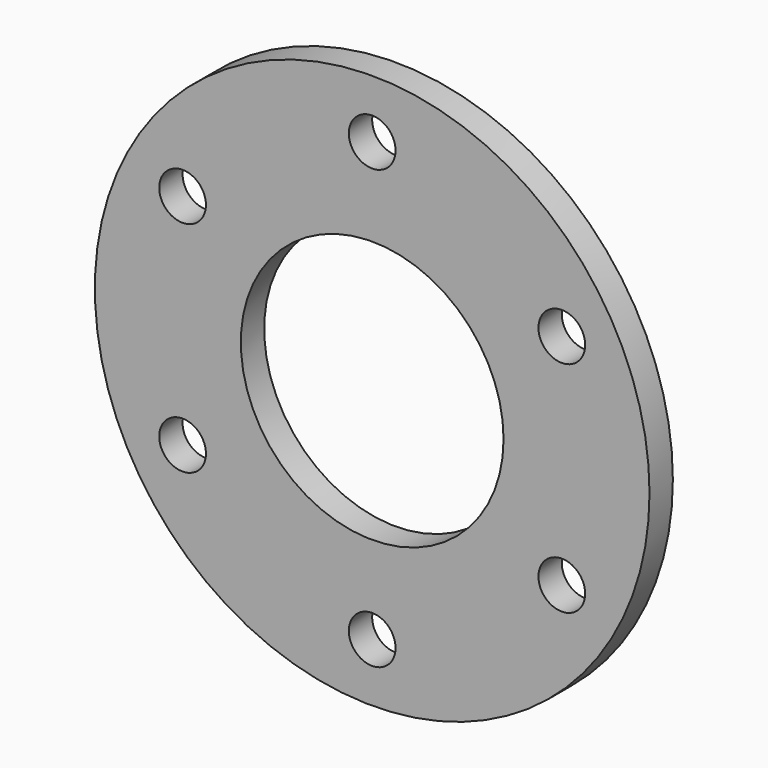
from build123d import *

# Parameters (mm, degrees)
F0_R     = 95
F0_R_2   = 45
F1_DEPTH = 10
F2_R     = 8
F3_DEPTH = 25


with BuildPart() as f1:
    # F0 (on Front) → F1 (new body)
    with BuildSketch(Plane.XZ):
        Circle(F0_R)
        Circle(F0_R_2, mode=Mode.SUBTRACT)
    extrude(amount=F1_DEPTH)

    # F2 (on face) → F3 (cut)
    with BuildSketch(Plane.XZ.offset(10)):
        with Locations((0, 75)):
            Circle(F2_R)
        with Locations((64.951905, 37.5)):
            Circle(F2_R)
        with Locations((64.951905, -37.5)):
            Circle(F2_R)
        with Locations((0, -75)):
            Circle(F2_R)
        with Locations((-64.951905, -37.5)):
            Circle(F2_R)
        with Locations((-64.951905, 37.5)):
            Circle(F2_R)
    extrude(amount=-F3_DEPTH, mode=Mode.SUBTRACT)


solid = f1.part
